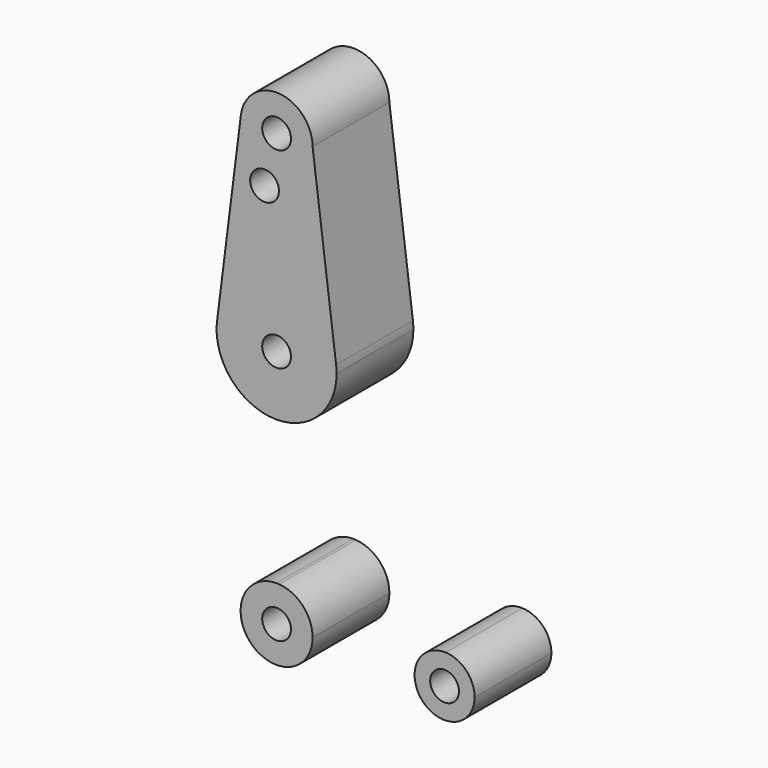
from build123d import *

# Parameters (mm, degrees)
F0_R     = 3.81
F1_DEPTH = 25.4


with BuildPart() as f1:
    # F0 (on Front) → F1 (new body)
    with BuildSketch(Plane.XZ):
        with BuildLine():
            ThreePointArc((-9.450293, 115.490625), (-0.596483, 104.793695), (9.525, 114.3))
            ThreePointArc((9.525, 114.3), (0.596483, 123.806305), (-9.450293, 115.490625))
        make_face()
        with Locations((0, 114.3)):
            Circle(F0_R, mode=Mode.SUBTRACT)
        with BuildLine():
            Line((15.747457, 65.508289), (9.525, 114.3))
            ThreePointArc((9.525, 114.3), (-0.596483, 104.793695), (-9.450293, 115.490625))
            Line((-9.450293, 115.490625), (-15.750488, 65.484375))
            ThreePointArc((-15.750488, 65.484375), (-0.012053, 79.374995), (15.747457, 65.508289))
        make_face()
        with Locations((-3.175, 101.092)):
            Circle(F0_R, mode=Mode.SUBTRACT)
        with BuildLine():
            ThreePointArc((15.875, 63.5), (15.843082, 64.506168), (15.747457, 65.508289))
            ThreePointArc((15.747457, 65.508289), (-0.012053, 79.374995), (-15.750488, 65.484375))
            ThreePointArc((-15.750488, 65.484375), (-15.873744, 63.699705), (-15.795426, 61.9125))
            ThreePointArc((-15.795426, 61.9125), (0.794747, 47.644906), (15.875, 63.5))
        make_face()
        with Locations((0, 63.5)):
            Circle(F0_R, mode=Mode.SUBTRACT)
        with BuildLine():
            ThreePointArc((44.732405, -7.932475), (50.161633, -5.51191), (52.3875, 0))
            ThreePointArc((52.3875, 0), (50.161633, 5.51191), (44.732405, 7.932475))
            ThreePointArc((44.732405, 7.932475), (36.5125, 0), (44.732405, -7.932475))
        make_face()
        with Locations((44.45, 0)):
            Circle(F0_R, mode=Mode.SUBTRACT)
        with BuildLine():
            ThreePointArc((0, -9.525), (0.338886, -9.51897), (0.677344, -9.500886))
            Line((0.677344, -9.500886), (0, -9.525))
        make_face()
        with BuildLine():
            Line((0, -9.525), (0.677344, -9.500886))
            ThreePointArc((0.677344, -9.500886), (6.970557, -6.491299), (9.525, 0))
            ThreePointArc((9.525, 0), (6.970557, 6.491299), (0.677344, 9.500886))
            Line((0.677344, 9.500886), (0, 9.525))
            ThreePointArc((0, 9.525), (-9.525, 0), (0, -9.525))
        make_face()
        Circle(F0_R, mode=Mode.SUBTRACT)
        with BuildLine():
            ThreePointArc((0.677344, 9.500886), (0.338886, 9.51897), (0, 9.525))
            Line((0, 9.525), (0.677344, 9.500886))
        make_face()
    extrude(amount=F1_DEPTH)


solid = f1.part
